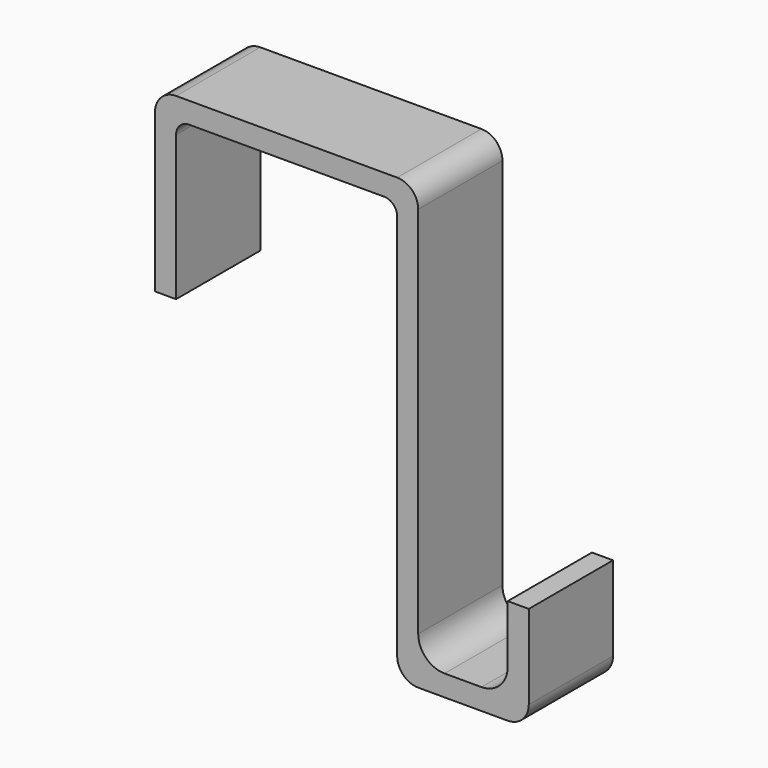
from build123d import *

# Parameters (mm, degrees)
F1_DEPTH = 25.4
F2_R     = 5.08


with BuildPart() as f1:
    # F0 (on Front) → F1 (new body)
    with BuildSketch(Plane.XZ):
        with BuildLine():
            Line((0, 43.18), (0, 0))
            Line((0, 0), (5.08, 0))
            Line((5.08, 0), (5.08, 34.925))
            ThreePointArc((5.08, 34.925), (6.009936, 37.170064), (8.255, 38.1))
            Line((8.255, 38.1), (55.245, 38.1))
            ThreePointArc((55.245, 38.1), (57.490064, 37.170064), (58.42, 34.925))
            Line((58.42, 34.925), (58.42, -63.5))
            Line((58.42, -63.5), (90.17, -63.5))
            Line((90.17, -63.5), (90.17, -38.1))
            Line((90.17, -38.1), (85.09, -38.1))
            Line((85.09, -38.1), (85.09, -52.07))
            ThreePointArc((85.09, -52.07), (83.230128, -56.560128), (78.74, -58.42))
            Line((78.74, -58.42), (69.85, -58.42))
            ThreePointArc((69.85, -58.42), (65.359872, -56.560128), (63.5, -52.07))
            Line((63.5, -52.07), (63.5, 43.18))
            Line((63.5, 43.18), (0, 43.18))
        make_face()
    extrude(amount=F1_DEPTH)

    # F2
    f2_edges = [f1.edges().sort_by_distance(p)[0] for p in [
        (0, -12.7, 43.18),
        (63.5, -12.7, 43.18),
        (90.17, -12.7, -63.5),
        (58.42, -12.7, -63.5),
    ]]
    fillet(f2_edges, radius=F2_R)


solid = f1.part
